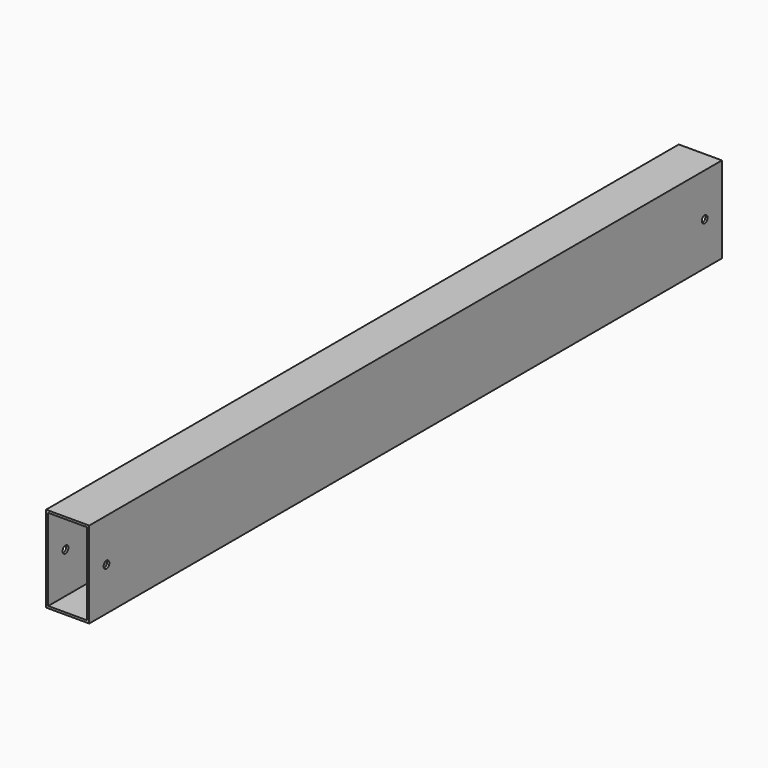
from build123d import *

# Parameters (mm, degrees)
F1_DEPTH = 550
F3_D     = 10


with BuildPart() as f1:
    # F0 (on Front) → F1 (new body, symmetric)
    with BuildSketch(Plane.XZ):
        Polygon((-30, 60), (-30, 0), (-30, -60), (30, -60), (30, 60), align=None)
        Polygon((-27, 0), (-27, 57), (27, 57), (27, -57), (-27, -57), align=None, mode=Mode.SUBTRACT)
    extrude(amount=F1_DEPTH, both=True)

    # F3 (through all)
    with Locations(Plane.YZ.offset(30)):
        with Locations((520, 0), (-520, 0)):
            Hole(F3_D / 2)


solid = f1.part
